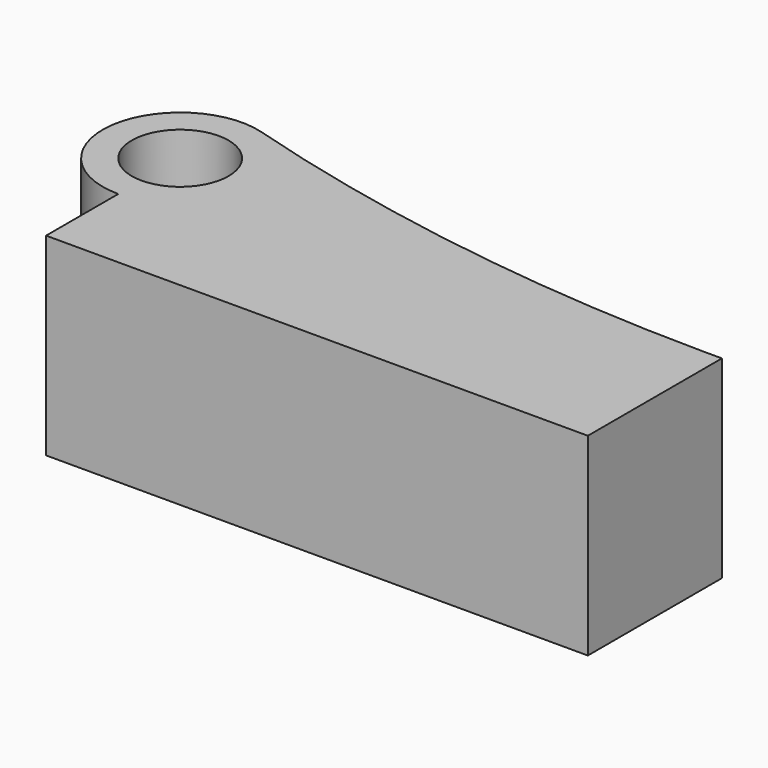
from build123d import *

# Parameters (mm, degrees)
F1_DEPTH = 50


with BuildPart() as f1:
    # F0 (on Top) → F1 (new body)
    with BuildSketch(Plane.XY):
        with BuildLine():
            ThreePointArc((-70, 9.1554043633), (-78.8388347648, 30.4942391281), (-57.5, 21.6554043633))
            Line((-57.5, 21.6554043633), (-50, 21.6554043633))
            ThreePointArc((-50, 21.6554043633), (-53.9674455372, 33.6118753057), (-64.2957197398, 40.82468152))
            ThreePointArc((-64.2957197398, 40.82468152), (-89.7912296629, 24.5376306612), (-70, 1.6554043633))
            Line((-70, 1.6554043633), (-70, 9.1554043633))
        make_face()
        with BuildLine():
            Line((64.7676638248, 21.6554043633), (-50, 21.6554043633))
            ThreePointArc((-50, 21.6554043633), (-55.8578643763, 7.5132687395), (-70, 1.6554043633))
            Line((-70, 1.6554043633), (-70, -21.6554043633))
            Line((-70, -21.6554043633), (70, -21.6554043633))
            Line((70, -21.6554043633), (70, 21.6554043633))
            ThreePointArc((70, 21.6554043633), (67.3838319124, 21.6479919897), (64.7676638248, 21.6554043633))
        make_face()
        with BuildLine():
            Line((-50, 21.6554043633), (-57.5, 21.6554043633))
            ThreePointArc((-57.5, 21.6554043633), (-61.1611652352, 12.8165695984), (-70, 9.1554043633))
            Line((-70, 9.1554043633), (-70, 1.6554043633))
            ThreePointArc((-70, 1.6554043633), (-55.8578643763, 7.5132687395), (-50, 21.6554043633))
        make_face()
        with BuildLine():
            ThreePointArc((-64.2957197398, 40.82468152), (-53.9674455372, 33.6118753057), (-50, 21.6554043633))
            Line((-50, 21.6554043633), (64.7676638248, 21.6554043633))
            ThreePointArc((64.7676638248, 21.6554043633), (-0.4446310054, 26.6576619002), (-64.2957197398, 40.82468152))
        make_face()
    extrude(amount=F1_DEPTH)


solid = f1.part
